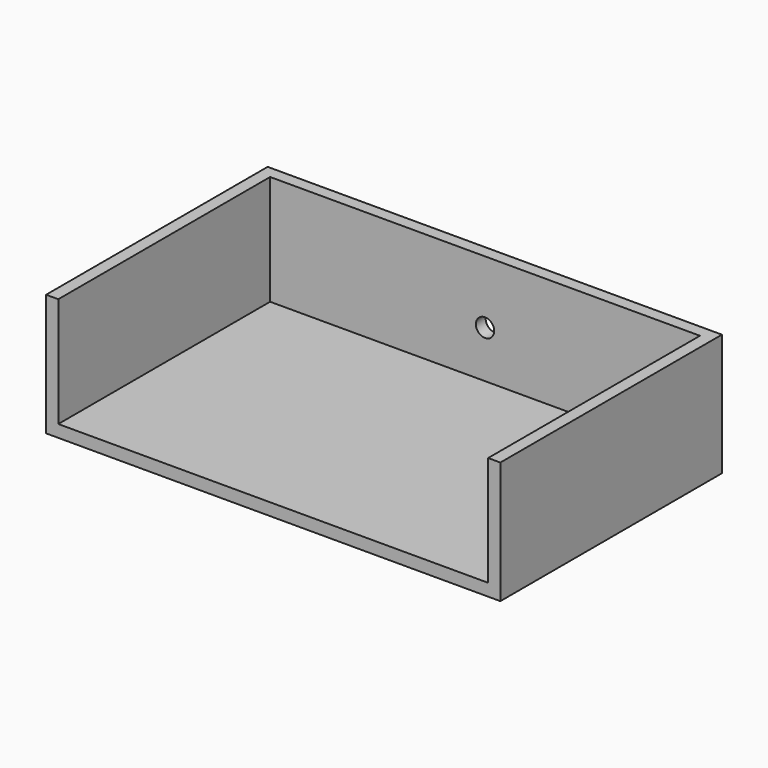
from build123d import *

# Parameters (mm, degrees)
F0_W     = 94.539702
F0_H     = 57.64192
F1_DEPTH = 25.4
F2_T     = -2.54
F4_D     = 3.81


with BuildPart() as f1:
    # F0 (on Top) → F1 (new body)
    with BuildSketch(Plane.XY):
        Rectangle(F0_W, F0_H)
    extrude(amount=F1_DEPTH)

    # F2
    f2_openings = [f1.faces().sort_by_distance(p)[0] for p in [
        (0, 0, 25.4),
        (0, -28.82096, 12.7),
    ]]
    offset(amount=F2_T, openings=f2_openings)

    # F4 (through all)
    with Locations(Plane.XZ.offset(-26.28096)):
        with Locations((0, 12.345429)):
            Hole(F4_D / 2)


solid = f1.part
